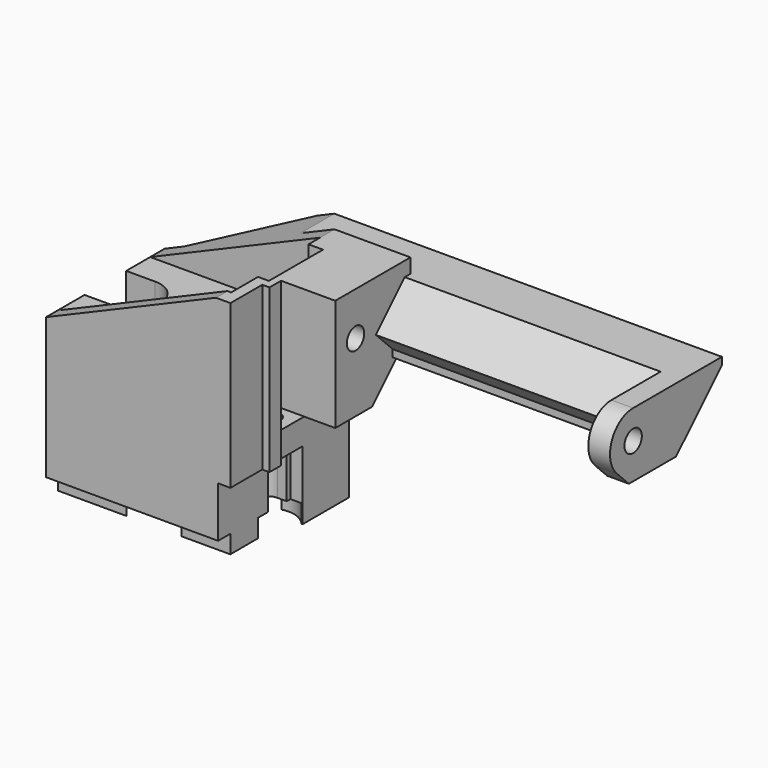
from build123d import *

# Parameters (mm, degrees)
SKETCH_W           = 25.5
SKETCH_H           = 20.5
PAD_DEPTH          = 32
POCKET_DEPTH       = 20.501
SKETCH002_W        = 25.5
SKETCH002_H        = 2
POCKET001_DEPTH    = 2.1
SKETCH003_W        = 1.7
SKETCH003_H        = 9.5
POCKET002_DEPTH    = 12.5
SKETCH004_R        = 1.6
POCKET003_DEPTH    = 32.001
SKETCH005_R        = 3.6
POCKET004_DEPTH    = 2
SKETCH006_R        = 9
POCKET005_DEPTH    = 2
SKETCH007_R        = 3.6
POCKET006_DEPTH    = 19
SKETCH008_W        = 2.9999909846
SKETCH008_H        = 7.2
POCKET007_DEPTH    = 19
SKETCH009_W        = 2.9999856852
SKETCH009_H        = 3.2
POCKET008_DEPTH    = 7.5
SKETCH010_W        = 13
SKETCH010_H        = 15.5
PAD001_DEPTH       = 8.5
SKETCH011_W        = 16
SKETCH011_H        = 10
POCKET009_DEPTH    = 24
SKETCH012_W        = 4
SKETCH012_H        = 7.2
POCKET010_DEPTH    = 9
SKETCH013_W        = 1.5
SKETCH013_H        = 1.85
PAD002_DEPTH       = 15.5
PAD002_FACE36_W    = 4.15
PAD002_FACE36_H    = 10
POCKET011_DEPTH    = 1.5
SKETCH014_R        = 1.5
POCKET012_DEPTH    = 34.001
POCKET012_FACE43_W = 1.5
POCKET012_FACE43_H = 15.5
POCKET013_DEPTH    = 1.85
SKETCH015_W        = 4
SKETCH015_H        = 4.8
SKETCH015_H_2      = 3
POCKET014_DEPTH    = 2
POCKET015_DEPTH    = 8.5
PAD003_DEPTH       = 25
SKETCH018_W        = 1
SKETCH018_H        = 1
POCKET016_DEPTH    = 25
SKETCH019_W        = 2
SKETCH019_H        = 2
PAD004_DEPTH       = 10
SKETCH020_W        = 1
SKETCH020_H        = 2
PAD005_DEPTH       = 22.5
POCKET017_DEPTH    = 25
PAD006_DEPTH       = 25
PAD007_DEPTH       = 1
POCKET018_DEPTH    = 0.5
PAD008_DEPTH       = 58
POCKET019_DEPTH    = 5.851
PAD009_DEPTH       = 9.4
SKETCH024_R        = 1.5
PAD010_DEPTH       = 3


with BuildPart() as part:
    # Sketch → Pad (new body)
    with BuildSketch(Plane.XY):
        with Locations((12.75, 10.25)):
            Rectangle(SKETCH_W, SKETCH_H)
    extrude(amount=PAD_DEPTH)

    # Sketch001 (on Face1 of Pad) → Pocket (cut, through all)
    with BuildSketch(Plane.XZ):
        Polygon((0, 22), (23.5, 32), (0, 32), align=None)
    extrude(amount=-POCKET_DEPTH, mode=Mode.SUBTRACT)

    # Sketch002 (on Face1 of Pocket) → Pocket001 (cut)
    with BuildSketch(Plane.XZ):
        with Locations((12.75, 1)):
            Rectangle(SKETCH002_W, SKETCH002_H)
    extrude(amount=-POCKET001_DEPTH, mode=Mode.SUBTRACT)

    # Sketch003 (on Face1 of Pocket001) → Pocket002 (cut)
    with BuildSketch(Plane.XZ):
        with Locations((24.65, 4.75)):
            Rectangle(SKETCH003_W, SKETCH003_H)
    extrude(amount=-POCKET002_DEPTH, mode=Mode.SUBTRACT)

    # Sketch004 (on Face10 of Pocket002) → Pocket003 (cut, through all)
    with BuildSketch(Plane(origin=(0, 0, 0), x_dir=(1, 0, 0), z_dir=(0, 0, -1))):
        with Locations((4, -10.25)):
            Circle(SKETCH004_R)
        with Locations((22.5, -10.25)):
            Circle(SKETCH004_R)
    extrude(amount=-POCKET003_DEPTH, mode=Mode.SUBTRACT)

    # Sketch005 (on Face10 of Pocket003) → Pocket004 (cut)
    with BuildSketch(Plane(origin=(0, 0, 0), x_dir=(1, 0, 0), z_dir=(0, 0, -1))):
        with Locations((4, -10.25)):
            Circle(SKETCH005_R)
        with Locations((22.5, -10.25)):
            Circle(SKETCH005_R)
    extrude(amount=-POCKET004_DEPTH, mode=Mode.SUBTRACT)

    # Sketch006 (on Face10 of Pocket004) → Pocket005 (cut)
    with BuildSketch(Plane(origin=(0, 0, 0), x_dir=(1, 0, 0), z_dir=(0, 0, -1))):
        with Locations((13.25, -10.25)):
            Circle(SKETCH006_R)
    extrude(amount=-POCKET005_DEPTH, mode=Mode.SUBTRACT)

    # Sketch007 (on Face5 of Pocket005) → Pocket006 (cut)
    with BuildSketch(Plane.XY.offset(32)):
        with Locations((4, 10.25)):
            Circle(SKETCH007_R)
        with Locations((22.5, 10.25)):
            Circle(SKETCH007_R)
    extrude(amount=-POCKET006_DEPTH, mode=Mode.SUBTRACT)

    # Sketch008 (on Face5 of Pocket006) → Pocket007 (cut)
    with BuildSketch(Plane.XY.offset(32)):
        with Locations((24.0000045077, 10.25)):
            Rectangle(SKETCH008_W, SKETCH008_H)
    extrude(amount=-POCKET007_DEPTH, mode=Mode.SUBTRACT)

    # Sketch009 (on Face8 of Pocket007) → Pocket008 (cut)
    with BuildSketch(Plane(origin=(0, 0, 2), x_dir=(1, 0, 0), z_dir=(0, 0, -1))):
        with Locations((24.0000071574, -10.25)):
            Rectangle(SKETCH009_W, SKETCH009_H)
    extrude(amount=-POCKET008_DEPTH, mode=Mode.SUBTRACT)

    # Sketch010 (on Face3 of Pocket008) → Pad001 (join)
    with BuildSketch(Plane.YZ.offset(25.5)):
        with Locations((14, 24.25)):
            Rectangle(SKETCH010_W, SKETCH010_H)
    extrude(amount=PAD001_DEPTH)

    # Sketch011 (on Face7 of Pad001) → Pocket009 (cut)
    with BuildSketch(Plane(origin=(0, 0, 0), x_dir=(0, -1, 0), z_dir=(-1, 0, 0))):
        with Locations((-10, 27)):
            Rectangle(SKETCH011_W, SKETCH011_H)
    extrude(amount=-POCKET009_DEPTH, mode=Mode.SUBTRACT)

    # Sketch012 (on Face26 of Pocket009) → Pocket010 (cut)
    with BuildSketch(Plane.XY.offset(22)):
        with Locations((2, 10.25)):
            Rectangle(SKETCH012_W, SKETCH012_H)
    extrude(amount=-POCKET010_DEPTH, mode=Mode.SUBTRACT)

    # Sketch013 (on Face36 of Pocket010) → Pad002 (join)
    with BuildSketch(Plane.XY.offset(32)):
        with Locations((24.75, 7.575)):
            Rectangle(SKETCH013_W, SKETCH013_H)
    extrude(amount=-PAD002_DEPTH)

    # Pad002 Face36 → Pocket011 (cut)
    with BuildSketch(Plane(origin=(24, 15.925, 27), x_dir=(0, 1, 0), z_dir=(-1, 0, 0))):
        Rectangle(PAD002_FACE36_W, PAD002_FACE36_H)
    extrude(amount=-POCKET011_DEPTH, mode=Mode.SUBTRACT)

    # Sketch014 (on Face35 of Pocket011) → Pocket012 (cut, through all)
    with BuildSketch(Plane.YZ.offset(34)):
        with Locations((11, 26)):
            Circle(SKETCH014_R)
    extrude(amount=-POCKET012_DEPTH, mode=Mode.SUBTRACT)

    # Pocket012 Face43 → Pocket013 (cut)
    with BuildSketch(Plane(origin=(24.75, 8.5, 24.25), x_dir=(1, 0, 0), z_dir=(0, 1, 0))):
        Rectangle(POCKET012_FACE43_W, POCKET012_FACE43_H)
    extrude(amount=-POCKET013_DEPTH, mode=Mode.SUBTRACT)

    # Sketch015 (on Face2 of Pocket013) → Pocket014 (cut)
    with BuildSketch(Plane(origin=(0, 0, 0), x_dir=(1, 0, 0), z_dir=(0, 0, -1))):
        with Locations((13.25, -18.1)):
            Rectangle(SKETCH015_W, SKETCH015_H)
        with Locations((2, -10.25)):
            Rectangle(SKETCH015_W, SKETCH015_H_2)
    extrude(amount=-POCKET014_DEPTH, mode=Mode.SUBTRACT)

    # Sketch016 (on Face45 of Pocket014) → Pocket015 (cut)
    with BuildSketch(Plane.YZ.offset(34)):
        Polygon((13.85, 16.5), (20.5, 23.15), (20.5, 16.5), align=None)
    extrude(amount=-POCKET015_DEPTH, mode=Mode.SUBTRACT)

    # Sketch017 (on Face46 of Pocket015) → Pad003 (join)
    with BuildSketch(Plane.YZ.offset(34)):
        Polygon((20.5, 31), (14.5, 25), (14.5, 17.15), (20.5, 23.15), align=None)
    extrude(amount=PAD003_DEPTH)

    # Sketch018 (on Face53 of Pad003) → Pocket016 (cut)
    with BuildSketch(Plane.YZ.offset(59)):
        with Locations((20, 30.5)):
            Rectangle(SKETCH018_W, SKETCH018_H)
        with Locations((15, 17.65)):
            Rectangle(SKETCH018_W, SKETCH018_H)
    extrude(amount=-POCKET016_DEPTH, mode=Mode.SUBTRACT)

    # Sketch019 (on Face45 of Pocket016) → Pad004 (join)
    with BuildSketch(Plane.XY.offset(32)):
        with Locations((24.5, 17)):
            Rectangle(SKETCH019_W, SKETCH019_H)
    extrude(amount=-PAD004_DEPTH)

    # Sketch020 (on Face60 of Pad004) → Pad005 (join)
    with BuildSketch(Plane.XY.offset(32)):
        with Locations((26, 6.5)):
            Rectangle(SKETCH020_W, SKETCH020_H)
    extrude(amount=-PAD005_DEPTH)

    # Sketch021 (on Face46 of Pad005) → Pocket017 (cut)
    with BuildSketch(Plane.YZ.offset(59)):
        Polygon((14.5, 25), (18.425, 21.075), (14.5, 17.15), align=None)
    extrude(amount=-POCKET017_DEPTH, mode=Mode.SUBTRACT)

    # Sketch022 (on Face49 of Pocket017) → Pad006 (join)
    with BuildSketch(Plane.YZ.offset(59)):
        Polygon((18.425, 21.075), (17.425, 21.075), (17.425, 22.075), align=None)
    extrude(amount=-PAD006_DEPTH)

    # Pad006 Face64 → Pad007 (add)
    with BuildSketch(Plane(origin=(59, 18.28427215, 25.3924064799), x_dir=(0, -1, 0), z_dir=(1, 0, 0))):
        Polygon((-2.21572785, -4.6075935201), (-1.21572785, -4.6075935201), (3.78427215, 0.3924064799), (0.85927215, 3.3174064799), (0.85927215, 4.3174064799), (-0.14072785, 4.3174064799), (-2.21572785, 2.2424064799), align=None)
    extrude(amount=PAD007_DEPTH)

    # Pad007 Face4 → Pocket018 (cut)
    with BuildSketch(Plane(origin=(12.6211473302, 9.1246275662, 2), x_dir=(0, -1, 0), z_dir=(0, 0, -1))):
        with BuildLine():
            Line((0.3746275662, 12.6211473302), (-2.6253724338, 12.6211473302))
            Line((-2.6253724338, 12.6211473302), (-2.6253724338, 11.8937609646))
            ThreePointArc((-2.6253724338, 11.8937609646), (-4.3864646733, 10.1460333605), (-4.5985386893, 7.6739851681))
            ThreePointArc((-4.5985386893, 7.6739851681), (-8.0127244114, 5.1646249332), (-9.9003368212, 1.3711473302))
            Line((-9.9003368212, 1.3711473302), (-11.3753724338, 1.3711473302))
            Line((-11.3753724338, 1.3711473302), (-11.3753724338, -2.6288526698))
            Line((-11.3753724338, -2.6288526698), (-9.9003368212, -2.6288526698))
            ThreePointArc((-9.9003368212, -2.6288526698), (-8.0127244114, -6.4223302727), (-4.5985386893, -8.9316905076))
            ThreePointArc((-4.5985386893, -8.9316905076), (-4.5485570394, -10.9932166839), (-3.3753724338, -12.6891017691))
            Line((-3.3753724338, -12.6891017691), (-3.3753724338, -11.1788526698))
            Line((-3.3753724338, -11.1788526698), (-2.7253724338, -11.1788526698))
            Line((-2.7253724338, -11.1788526698), (-2.7253724338, -9.8788669846))
            ThreePointArc((-2.7253724337, -9.8788669846), (-2.71357708, -9.6849300003), (-2.6783614872, -9.4938526698))
            ThreePointArc((-2.6783614872, -9.4938526698), (-1.1253724338, -8.2788526698), (0.4276166196, -9.4938526698))
            ThreePointArc((0.4276166196, -9.4938526698), (0.4628322125, -9.6849300003), (0.4746275662, -9.8788669846))
            Line((0.4746275662, -9.8788669846), (0.4746275662, -11.1788526698))
            Line((0.4746275662, -11.1788526698), (2.2317096326, -11.1788526698))
            ThreePointArc((2.2317096326, -11.1788526698), (2.4698337467, -10.0645742886), (2.3477938218, -8.9316905076))
            ThreePointArc((2.3477938218, -8.9316905076), (5.1038193792, -7.124787503), (7.0246275662, -4.4469019099))
            Line((7.0246275662, -4.4469019099), (7.0246275662, -11.1788526698))
            Line((7.0246275662, -11.1788526698), (9.1246275662, -11.1788526698))
            Line((9.1246275662, -11.1788526698), (9.1246275662, 12.6211473302))
            Line((9.1246275662, 12.6211473302), (7.0246275662, 12.6211473302))
            Line((7.0246275662, 12.6211473302), (7.0246275662, 3.1891965703))
            ThreePointArc((7.0246275662, 3.1891965703), (5.1038193792, 5.8670821634), (2.3477938218, 7.6739851681))
            ThreePointArc((2.3477938218, 7.6739851681), (2.1357198057, 10.1460333605), (0.3746275662, 11.8937609646))
            Line((0.3746275662, 11.8937609646), (0.3746275662, 12.6211473302))
        make_face()
        with BuildLine():
            ThreePointArc((-2.6253724338, 9.1779237665), (-1.1253724338, 10.2211473302), (0.3746275662, 9.1779237665))
            ThreePointArc((0.3746275662, 9.1779237665), (0.4721009632, 8.7110291747), (0.4276166196, 8.2361473302))
            ThreePointArc((0.4276166196, 8.2361473302), (-0.1394718303, 7.3609886101), (-1.1253724338, 7.0211473302))
            ThreePointArc((-1.1253724338, 7.0211473302), (-2.1112730373, 7.3609886101), (-2.6783614872, 8.2361473302))
            ThreePointArc((-2.6783614872, 8.2361473302), (-2.7228458307, 8.7110291747), (-2.6253724338, 9.1779237665))
        make_face(mode=Mode.SUBTRACT)
    extrude(amount=-POCKET018_DEPTH, mode=Mode.SUBTRACT)

    # Sketch023 (on Face35 of Pocket018) → Pad008 (join)
    with BuildSketch(Plane.YZ.offset(60)):
        Polygon((20.5, 23.15), (26.35, 29), (26.35, 30), (20.5, 30), align=None)
    extrude(amount=-PAD008_DEPTH)

    # Pad008 Face47 → Pocket019 (cut, through all)
    with BuildSketch(Plane(origin=(7.6093987764, 20.5, 27.6250202352), x_dir=(-1, 0, 0), z_dir=(0, -1, 0))):
        Polygon((4.9068987764, 4.4750202352), (-11.1906012236, -2.3749797648), (5.6093987764, -2.3749797648), (5.6093987764, 4.4750202352), align=None)
    extrude(amount=-POCKET019_DEPTH, mode=Mode.SUBTRACT)

    # Pocket019 Face62 → Pad009 (add)
    with BuildSketch(Plane(origin=(60, 20.1386845476, 26.3510071585), x_dir=(0, -1, 0), z_dir=(1, 0, 0))):
        Polygon((1.7136845476, 5.2760071585), (-6.2113154524, -2.6489928415), (-6.2113154524, -3.6489928415), (0.6386845476, -3.6489928415), (5.6386845476, 1.3510071585), (2.7136845476, 4.2760071585), (2.7136845476, 5.2760071585), align=None)
    extrude(amount=PAD009_DEPTH)

    # Sketch024 (on Face60 of Pad009) → Pad010 (join)
    with BuildSketch(Plane.YZ.offset(69.4)):
        with BuildLine():
            ThreePointArc((11, 30), (7.30448187, 27.5307337295), (8.1715728753, 23.1715728753))
            Line((8.1715728753, 23.1715728753), (10.2681457504, 21.075))
            Line((18.425, 21.075), (10.2681457504, 21.075))
            Line((18.425, 21.075), (26.35, 29))
            Line((26.35, 29), (26.35, 30))
            Line((26.35, 30), (20.5, 30))
            Line((20.5, 30), (11, 30))
        make_face()
        with Locations((11, 26)):
            Circle(SKETCH024_R, mode=Mode.SUBTRACT)
    extrude(amount=PAD010_DEPTH)


solid = part.part
